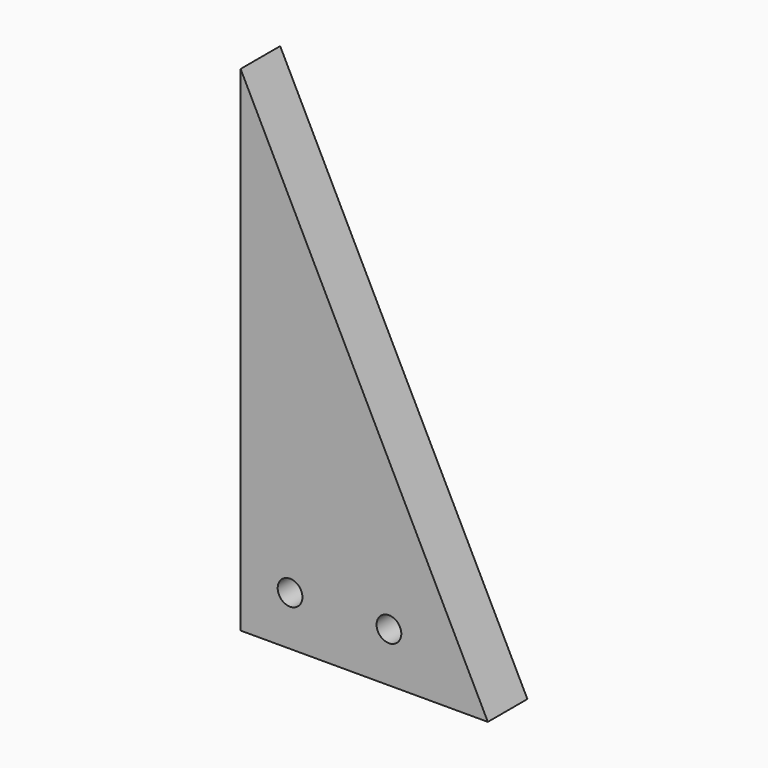
from build123d import *

# Parameters (mm, degrees)
F0_R     = 3.175
F1_DEPTH = 12.7


with BuildPart() as f1:
    # F0 (on Front) → F1 (new body)
    with BuildSketch(Plane.XZ):
        Polygon((0, 127), (0, 0), (63.5, 0), align=None)
        with Locations((12.7, 12.7)):
            Circle(F0_R, mode=Mode.SUBTRACT)
        with Locations((38.1, 12.7)):
            Circle(F0_R, mode=Mode.SUBTRACT)
    extrude(amount=F1_DEPTH)


solid = f1.part
